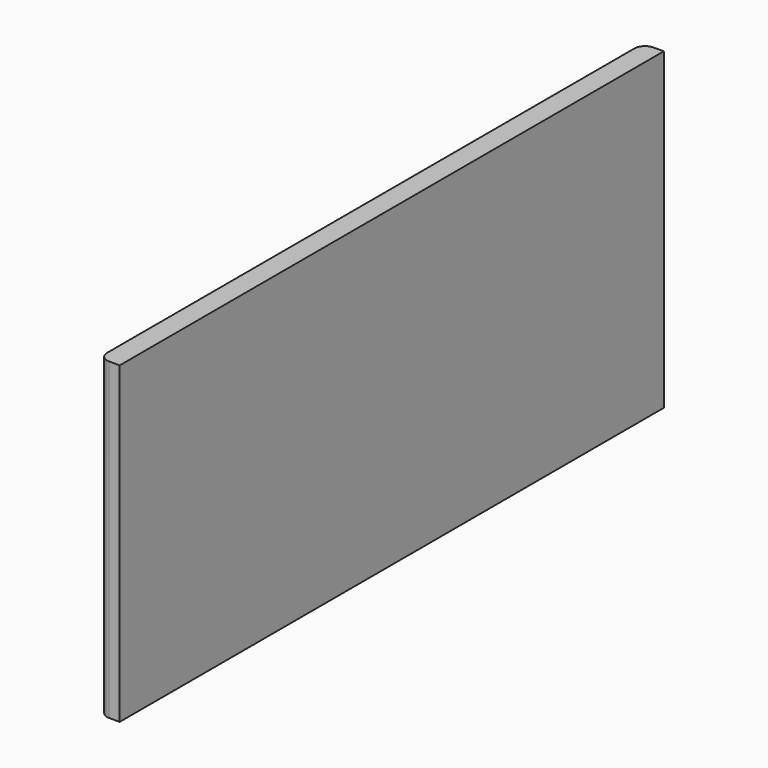
from build123d import *

# Parameters (mm, degrees)
SKETCH005_W  = 65
SKETCH005_H  = 30
PAD004_DEPTH = 2
FILLET016_R  = 1
FILLET021_R  = 1


with BuildPart() as part:
    # Sketch005 → Pad004 (new body)
    with BuildSketch(Plane.YZ):
        with Locations((0, 15)):
            Rectangle(SKETCH005_W, SKETCH005_H)
    extrude(amount=PAD004_DEPTH)

    # Fillet016
    fillet016_edges = [part.edges().sort_by_distance(p)[0] for p in [
        (0, 32.5, 15),
    ]]
    fillet(fillet016_edges, radius=FILLET016_R)

    # Fillet021
    fillet021_edges = [part.edges().sort_by_distance(p)[0] for p in [
        (0, -32.5, 15),
    ]]
    fillet(fillet021_edges, radius=FILLET021_R)


with BuildPart() as part_1:
    # Body004 placement: moved
    add(part.part.moved(Location((-52.5, 0, 0))))


solid = part_1.part
